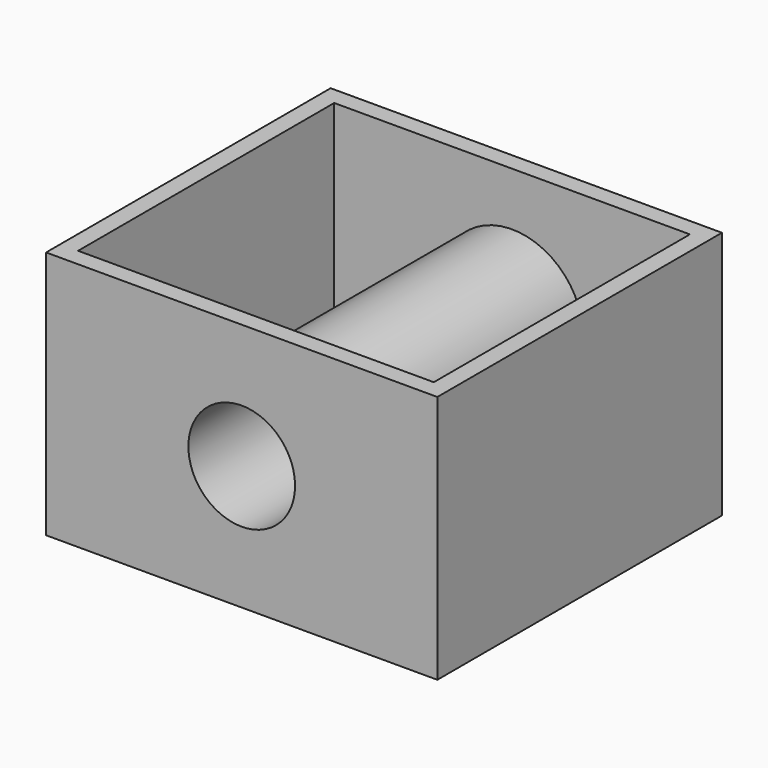
from build123d import *

# Parameters (mm, degrees)
F0_W     = 55
F0_H     = 35
F0_R     = 7.5
F1_DEPTH = 50
F2_T     = -2.5


with BuildPart() as f1:
    # F0 (on Front) → F1 (new body)
    with BuildSketch(Plane.XZ):
        with Locations((27.5, 17.5)):
            Rectangle(F0_W, F0_H)
        with Locations((27.5, 17.5)):
            Circle(F0_R, mode=Mode.SUBTRACT)
    extrude(amount=F1_DEPTH)

    # F2
    f2_openings = [f1.faces().sort_by_distance(p)[0] for p in [
        (27.5, -25, 35),
    ]]
    offset(amount=F2_T, openings=f2_openings)


solid = f1.part
